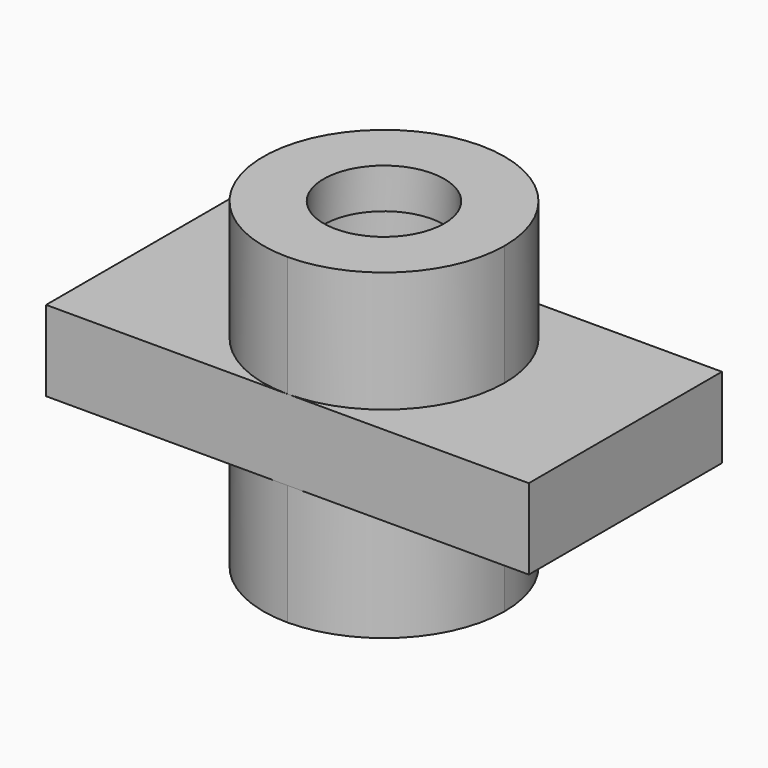
from build123d import *

# Parameters (mm, degrees)
F0_W          = 76.2
F0_H          = 12.7
F1_DEPTH      = 19.05
F2_R          = 9.525
F3_DEPTH      = 19.05
F3_DEPTH_BACK = 31.75
F3_FACE_R     = 9.525
F4_DEPTH      = 76.2
F5_W          = 12.7
F5_H          = 6.35


with BuildPart() as f1:
    # F0 (on Front) → F1 (new body, symmetric)
    with BuildSketch(Plane.XZ):
        Rectangle(F0_W, F0_H)
    extrude(amount=F1_DEPTH, both=True)

    # F2 (on face) → F3 (join, two sides)
    with BuildSketch(Plane.XY.offset(6.35)) as f3_sk:
        with BuildLine():
            ThreePointArc((0, -19.05), (13.470384, -13.470384), (19.05, 0))
            ThreePointArc((19.05, 0), (13.470384, 13.470384), (0, 19.05))
            ThreePointArc((0, 19.05), (-19.05, 0), (0, -19.05))
        make_face()
        Circle(F2_R, mode=Mode.SUBTRACT)
    extrude(amount=F3_DEPTH)
    extrude(f3_sk.sketch, amount=-F3_DEPTH_BACK)

    # F3_face (on face) → F4 (cut)
    with BuildSketch(Plane.XY.offset(6.35)):
        Circle(F3_FACE_R)
    extrude(amount=-F4_DEPTH, mode=Mode.SUBTRACT)

    # F5 (on Front) → F6 (revolve, cut)
    with BuildSketch(Plane.XZ):
        with Locations((6.35, 15.875)):
            Rectangle(F5_W, F5_H)
    revolve(axis=Axis((0, 0, 15.875), (0, 0, -1)), mode=Mode.SUBTRACT)


solid = f1.part
